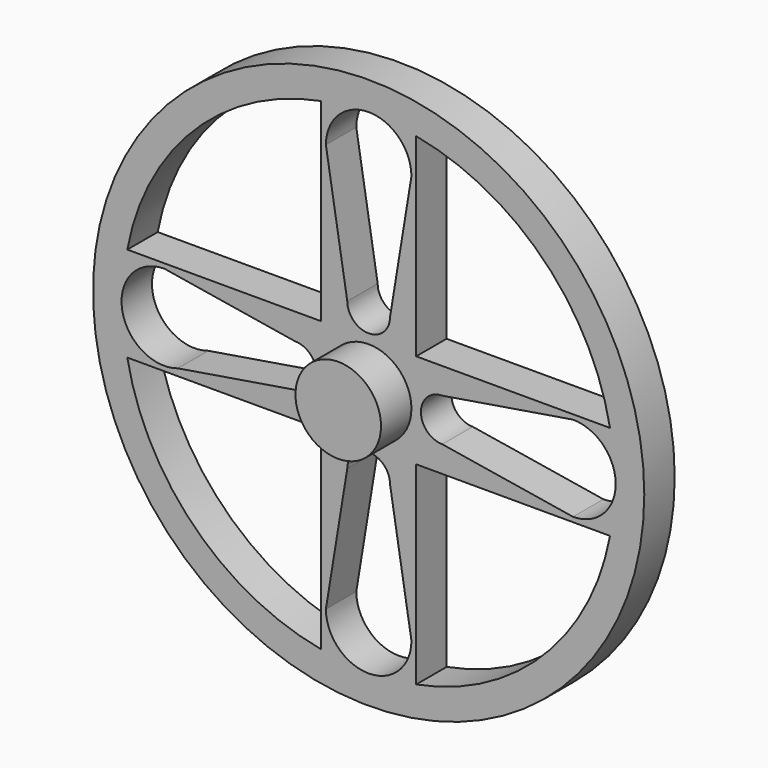
from build123d import *

# Parameters (mm, degrees)
F0_R     = 4.5
F1_DEPTH = 8
F0_R_2   = 29
F0_R_3   = 27
F2_DEPTH = 4


with BuildPart() as f1:
    # F0 (on Front) → F1 (new body)
    with BuildSketch(Plane.XZ):
        Circle(F0_R)
    extrude(amount=F1_DEPTH)

    # F0 (on Front) → F2 (join)
    with BuildSketch(Plane.XZ):
        Circle(F0_R_2)
        Circle(F0_R_3, mode=Mode.SUBTRACT)
        Circle(F0_R_3)
        with BuildLine():
            Line((-25.3947422835, -5), (-5, -5))
            Line((-5, -5), (-5, -25.3947395831))
            ThreePointArc((-5, -25.3947395831), (-18.3578630178, -18.3578620861), (-25.3947422835, -5))
        make_face(mode=Mode.SUBTRACT)
        with BuildLine():
            ThreePointArc((4.5, -21.5), (0, -26), (-4.5, -21.5))
            Line((-4.5, -21.5), (-2.25, -7.75))
            ThreePointArc((-2.25, -7.75), (0, -5.5), (2.25, -7.75))
            Line((2.25, -7.75), (4.5, -21.5))
        make_face(mode=Mode.SUBTRACT)
        with BuildLine():
            Line((5, -25.3947395831), (5, -5))
            Line((5, -5), (25.3947422835, -5))
            ThreePointArc((25.3947422835, -5), (18.3578630178, -18.3578620861), (5, -25.3947395831))
        make_face(mode=Mode.SUBTRACT)
        with BuildLine():
            ThreePointArc((-20.0656793303, -4.2652929813), (-25.940935623, -0.7266985565), (-21.5, 4.5))
            Line((-21.5, 4.5), (-7.75, 2.25))
            ThreePointArc((-7.75, 2.25), (-5.5, 0), (-7.75, -2.25))
            Line((-7.75, -2.25), (-20.0656793303, -4.2652929813))
        make_face(mode=Mode.SUBTRACT)
        with BuildLine():
            Line((-5, 25.3947422835), (-5, 5))
            Line((-5, 5), (-25.3947422835, 5))
            ThreePointArc((-25.3947422835, 5), (-18.35786369, 18.35786369), (-5, 25.3947422835))
        make_face(mode=Mode.SUBTRACT)
        Circle(F0_R, mode=Mode.SUBTRACT)
        with BuildLine():
            ThreePointArc((7.75, -2.25), (5.5, 0), (7.75, 2.25))
            Line((7.75, 2.25), (21.4941852602, 4.5))
            ThreePointArc((21.4941852602, 4.5), (25.9941852602, 0), (21.4941852602, -4.5))
            Line((21.4941852602, -4.5), (7.75, -2.25))
        make_face(mode=Mode.SUBTRACT)
        with BuildLine():
            ThreePointArc((-4.5, 21.5), (0, 26), (4.5, 21.5))
            Line((4.5, 21.5), (2.25, 7.75))
            ThreePointArc((2.25, 7.75), (0, 5.5), (-2.25, 7.75))
            Line((-2.25, 7.75), (-4.5, 21.5))
        make_face(mode=Mode.SUBTRACT)
        with BuildLine():
            Line((25.3947422835, 5), (5, 5))
            Line((5, 5), (5, 25.3947422835))
            ThreePointArc((5, 25.3947422835), (18.35786369, 18.35786369), (25.3947422835, 5))
        make_face(mode=Mode.SUBTRACT)
    extrude(amount=F2_DEPTH)


solid = f1.part
